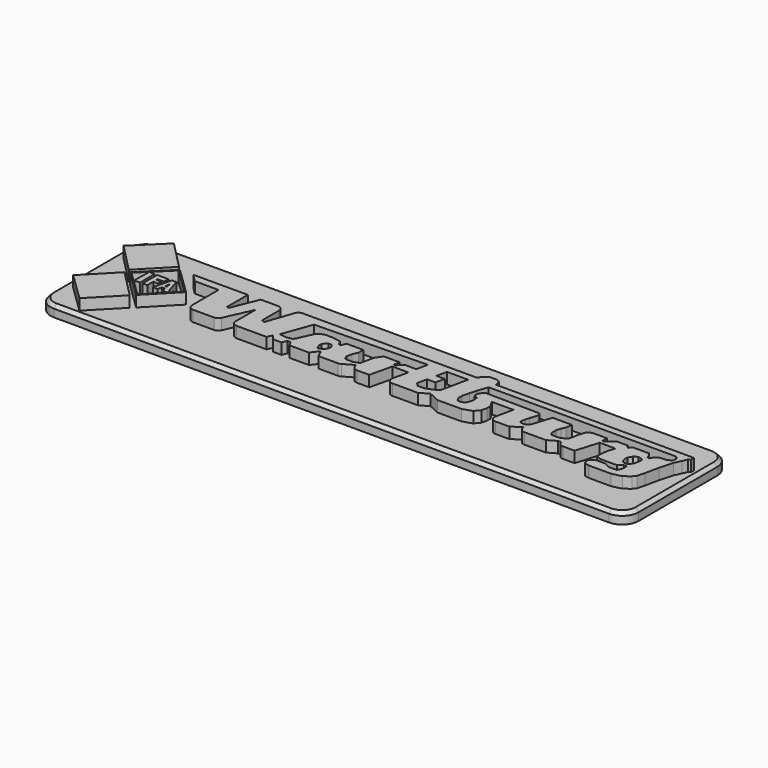
from build123d import *

# Parameters (mm, degrees)
F1_DEPTH = 4
F3_DEPTH = 2
F4_SIZE  = 0.6


with BuildPart() as f1:
    # F0 (on Top) → F1 (new body)
    with BuildSketch(Plane.XY):
        Polygon((-56.8491477888, 10.8641181501), (-51.6609624028, 5.5736856158), (-46.6462401689, 10.7284239638), (-51.7159807801, 15.8980774504), align=None)
    extrude(amount=F1_DEPTH)



with BuildPart() as f1b:
    # F0 (on Top) → F1, piece 2 (new body)
    with BuildSketch(Plane.XY):
        Polygon((-46.6462401689, -0.4782695793), (-51.6609624028, 4.6000382863), (-56.7799396805, -0.6713761738), (-51.6609624028, -5.6423244018), align=None)
    extrude(amount=F1_DEPTH)


with BuildPart() as f1c:
    # F0 (on Top) → F1, piece 3 (new body)
    with BuildSketch(Plane.XY):
        Polygon((-41.013058275, 5.2784369327), (-45.9690578282, 10.0911203772), (-51.0701322752, 5.088633392), (-45.9889408662, 0.1543783523), align=None)
        Polygon((-45.6421747804, 3.5069041654), (-44.7669662535, 3.5069041654), (-44.5982515812, 4.2997766286), (-44.0815612674, 4.2997766286), (-43.7863096595, 3.5069041654), (-43.0121455186, 3.5069041654), (-45.9930899982, 0.4371906305), (-50.7837716348, 5.0893367723), (-45.9683714231, 9.8116706918), (-41.2958705532, 5.2742878007), (-42.9915055972, 3.5281587196), (-44.0182946622, 6.8390495144), (-44.8196902871, 6.8390495144), align=None, mode=Mode.SUBTRACT)
        Polygon((-44.1553741693, 4.8776990377), (-44.4822609425, 4.8776990377), (-44.3097069724, 5.6886142319), align=None, mode=Mode.SUBTRACT)
    extrude(amount=F1_DEPTH)


with BuildPart() as f1d:
    # F0 (on Top) → F1, piece 4 (new body)
    with BuildSketch(Plane.XY):
        Polygon((-45.4645913815, 6.8390495144), (-47.5085824728, 6.8390495144), (-47.5085824728, 3.5069041654), (-46.6439202428, 3.5069041654), (-46.6462401689, 4.8776990377), (-45.7159876823, 4.8776990377), (-45.7171655664, 5.5736856158), (-46.6462401689, 5.5736856158), (-46.6467040939, 5.8478090154), (-45.4629138112, 5.8478090154), align=None)
    extrude(amount=F1_DEPTH)


with BuildPart() as f1e:
    # F0 (on Top) → F1, piece 5 (new body)
    with BuildSketch(Plane.XY):
        Polygon((-47.9514598846, 6.8390495144), (-48.9637479186, 6.8390495144), (-49.0059256554, 3.5069041654), (-47.9458205792, 3.5069041654), align=None)
    extrude(amount=F1_DEPTH)


with BuildPart() as f1f:
    # F0 (on Top) → F1, piece 6 (new body)
    with BuildSketch(Plane.XY):
        with BuildLine():
            Line((-33.6317829788, 10.1079009473), (-43.5470640659, 10.0911203772))
            Line((-43.5470640659, 10.0911203772), (-42.1426035464, 8.6866617203))
            Line((-42.1426035464, 8.6866617203), (-37.8289110959, 8.6866617203))
            Line((-37.8289110959, 8.6866617203), (-37.8289110959, 2.6643682029))
            ThreePointArc((-37.8289110959, 2.6643682029), (-37.536017877, 1.9572614217), (-36.8289110959, 1.6643682029))
            Line((-36.8289110959, 1.6643682029), (-33.0556263762, 1.6643682029))
            ThreePointArc((-33.0556263762, 1.6643682029), (-32.5142406566, 1.8235938559), (-32.1452599264, 2.2505651978))
            Line((-32.1452599264, 2.2505651978), (-29.9037508667, 7.1818842553))
            Line((-29.9037508667, 7.1818842553), (-29.9037508667, 2.6643682029))
            ThreePointArc((-29.9037508667, 2.6643682029), (-29.6108576478, 1.9572614217), (-28.9037508667, 1.6643682029))
            Line((-28.9037508667, 1.6643682029), (-23.4833676368, 1.6643682029))
            Line((-23.4833676368, 1.6643682029), (-23.0687130358, 2.5766081634))
            Line((-23.0687130358, 2.5766081634), (-22.2586710006, 1.6643682029))
            Line((-22.2586710006, 1.6643682029), (-20.7824148238, 1.6643682029))
            Line((-20.7824148238, 1.6643682029), (-20.3677602228, 2.5766081634))
            Line((-20.3677602228, 2.5766081634), (-19.8240242898, 2.5766081634))
            Line((-19.8240242898, 2.5766081634), (-19.3274728954, 1.6643682029))
            Line((-19.3274728954, 1.6643682029), (-15.7806798816, 1.6643682029))
            Line((-15.7806798816, 1.6643682029), (-14.7875770926, 2.9357683379))
            Line((-14.7875770926, 2.9357683379), (-14.5591006475, 2.8319153899))
            Line((-14.5591006475, 2.8319153899), (-14.0427509323, 1.6643682029))
            Line((-14.0427509323, 1.6643682029), (-10.4888273847, 1.6643682029))
            ThreePointArc((-10.4888273847, 1.6643682029), (-10.2310273846, 1.6981699003), (-9.9906555398, 1.7972898829))
            Line((-9.9906555398, 1.7972898829), (-8.186398074, 2.8339093551))
            Line((-8.186398074, 2.8339093551), (-7.9325436902, 2.2599050262))
            ThreePointArc((-7.9325436902, 2.2599050262), (-7.5636710089, 1.8263756085), (-7.017989406, 1.6643682029))
            Line((-7.017989406, 1.6643682029), (-4.8017664813, 1.6643682029))
            Line((-4.8017664813, 1.6643682029), (-3.8473706227, 5.7189371437))
            Line((-3.8473706227, 5.7189371437), (-0.924534339, 5.7189371437))
            Line((-0.924534339, 5.7189371437), (-1.551050498, 2.8798595415))
            ThreePointArc((-1.551050498, 2.8798595415), (-1.3541251908, 2.0380660947), (-0.5745447464, 1.6643682029))
            Line((-0.5745447464, 1.6643682029), (4.0263920091, 1.6643682029))
            Line((4.0263920091, 1.6643682029), (5.6141643822, 2.5766081634))
            Line((5.6141643822, 2.5766081634), (7.6210919397, 1.6643682029))
            Line((7.6210919397, 1.6643682029), (12.0194554329, 1.6643682029))
            Line((12.0194554329, 1.6643682029), (13.6716505513, 2.2204795387))
            Line((13.6716505513, 2.2204795387), (14.4308675081, 3.1062327325))
            Line((14.4308675081, 3.1062327325), (14.6628506482, 4.0763434954))
            Line((14.6628506482, 4.0763434954), (14.6628506482, 4.8566497862))
            Line((14.6628506482, 4.8566497862), (14.3213230469, 5.4510855853))
            Line((14.3213230469, 5.4510855853), (13.9736003474, 6.0563040801))
            Line((13.9736003474, 6.0563040801), (17.889522016, 6.0563040801))
            Line((17.889522016, 6.0563040801), (17.2165471831, 2.87108527))
            ThreePointArc((17.2165471831, 2.87108527), (17.4181863787, 2.0345734217), (18.1949479467, 1.6643682029))
            Line((18.1949479467, 1.6643682029), (20.6733178347, 1.6643682029))
            Line((20.6733178347, 1.6643682029), (22.381555289, 2.8339093551))
            Line((22.381555289, 2.8339093551), (22.4266097287, 2.5215890304))
            ThreePointArc((22.4266097287, 2.5215890304), (22.7616808527, 1.9084650436), (23.4163642982, 1.6643682029))
            Line((23.4163642982, 1.6643682029), (27.300762053, 1.6643682029))
            Line((27.300762053, 1.6643682029), (28.8559887558, 2.557909349))
            Line((28.8559887558, 2.557909349), (29.3621346354, 2.557909349))
            Line((29.3621346354, 2.557909349), (29.5871897186, 2.166196358))
            ThreePointArc((29.5871897186, 2.166196358), (29.953354795, 1.7988707029), (30.4542680385, 1.6643682029))
            Line((30.4542680385, 1.6643682029), (32.5466282666, 1.6643682029))
            Line((32.5466282666, 1.6643682029), (33.7909013033, 5.8056712151))
            Line((33.7909013033, 5.8056712151), (36.6801433265, 5.8056712151))
            Line((36.6801433265, 5.8056712151), (36.2372659147, 4.5192199759))
            Line((36.2372659147, 4.5192199759), (36.047462374, 2.3891944438))
            Line((36.047462374, 2.3891944438), (37.0175726712, 1.9463179633))
            Line((37.0175726712, 1.9463179633), (40.0122627616, 1.9463179633))
            Line((40.0122627616, 1.9463179633), (40.7714806497, 2.557909349))
            Line((40.7714806497, 2.557909349), (41.1721803248, 2.557909349))
            Line((41.1721803248, 2.557909349), (41.3307659731, 2.4855115464))
            Line((41.3307659731, 2.4855115464), (41.3307659731, 1.6643682029))
            Line((41.3307659731, 1.6643682029), (40.9237544536, 0.7728192417))
            Line((40.9237544536, 0.7728192417), (39.5061187446, 0.7728192417))
            Line((39.5061187446, 0.7728192417), (38.8340121151, 1.0796505572))
            Line((38.8340121151, 1.0796505572), (38.3290387587, 1.3101818931))
            Line((38.3290387587, 1.3101818931), (36.7434136569, 1.3101818931))
            Line((36.7434136569, 1.3101818931), (36.2800236663, 1.0439454514))
            Line((36.2800236663, 1.0439454514), (35.8787477016, 0.6176881143))
            Line((35.8787477016, 0.6176881143), (35.8787477016, 0))
            Line((35.8787477016, 0), (36.1434072791, -0.4606454261))
            Line((36.1434072791, -0.4606454261), (37.0175726712, -0.6265842239))
            Line((37.0175726712, -0.6265842239), (39.021063596, -0.6265842239))
            Line((39.021063596, -0.6265842239), (41.0034656525, -0.6265842239))
            Line((41.0034656525, -0.6265842239), (42.7327901125, -0.2258863533))
            Line((42.7327901125, -0.2258863533), (43.8505299389, 0.6176881143))
            Line((43.8505299389, 0.6176881143), (44.2934073508, 1.1871008901))
            Line((44.2934073508, 1.1871008901), (44.6519255638, 2.557909349))
            Line((44.6519255638, 2.557909349), (45.1791584492, 5.0464542583))
            Line((45.1791584492, 5.0464542583), (45.8540208638, 7.4928202666))
            Line((45.8540208638, 7.4928202666), (46.4150205562, 8.7216766235))
            Line((46.4150205562, 8.7216766235), (46.8107867459, 9.5885929597))
            Line((46.8107867459, 9.5885929597), (47.1712892131, 9.7957163245))
            Line((47.1712892131, 9.7957163245), (47.1712892131, 10.525864549))
            Line((47.1712892131, 10.525864549), (11.0987545922, 10.525864549))
            Line((11.0987545922, 10.525864549), (11.0987545922, 11.0991010442))
            Line((11.0987545922, 11.0991010442), (10.8275861877, 11.5710752176))
            Line((10.8275861877, 11.5710752176), (10.2662522453, 11.8273363886))
            Line((10.2662522453, 11.8273363886), (9.0319979936, 11.8273363886))
            Line((9.0319979936, 11.8273363886), (8.4826554452, 11.5117166984))
            Line((8.4826554452, 11.5117166984), (8.0618867651, 11.0780121759))
            Line((8.0618867651, 11.0780121759), (7.6716989279, 10.525864549))
            Line((7.6716989279, 10.525864549), (-23.9907798631, 10.525864549))
            ThreePointArc((-23.9907798631, 10.525864549), (-24.5722025638, 10.3394661979), (-24.9368727991, 9.8497598351))
            Line((-24.9368727991, 9.8497598351), (-26.5668462962, 5.088633392))
            Line((-26.5668462962, 5.088633392), (-26.988632977, 5.088633392))
            Line((-26.988632977, 5.088633392), (-27.1489290638, 5.3676320208))
            Line((-27.1489290638, 5.3676320208), (-27.1489290638, 9.1079009473))
            ThreePointArc((-27.1489290638, 9.1079009473), (-27.4418222826, 9.8150077285), (-28.1489290638, 10.1079009473))
            Line((-28.1489290638, 10.1079009473), (-31.2908627093, 10.1079009473))
            Line((-31.2908627093, 10.1079009473), (-33.2099944353, 5.3206156008))
            Line((-33.2099944353, 5.3206156008), (-33.6317829788, 5.3206156008))
            Line((-33.6317829788, 5.3206156008), (-33.6317829788, 10.1079009473))
        make_face()
        Polygon((-15.3597034514, 5.5736856158), (-14.7567484528, 5.5736856158), (-14.3668828242, 5.088633392), (-14.3660559284, 4.6000382863), (-14.7310993854, 3.8004193583), (-15.5193088576, 3.5069041654), (-15.7393340176, 3.5069041654), (-16.0345856255, 4.2997766286), (-16.0355636984, 4.8776990377), align=None, mode=Mode.SUBTRACT)
        Polygon((40.1727594435, 5.4630190134), (40.8087819815, 5.8404509909), (41.4901599288, 5.6744352914), (41.7890250683, 5.4306504317), (41.7890250683, 4.8845685087), (41.6315421462, 4.0197898634), (41.0762242973, 3.1394220423), (40.3275750577, 3.1394220423), (39.8974567652, 3.4271506593), (39.6995358169, 3.9670388214), (39.6995358169, 4.7001182102), align=None, mode=Mode.SUBTRACT)
        Polygon((-21.3360507041, 3.2952332404), (-22.4922541529, 3.5069041654), (-20.5884817988, 8.8352328166), (-0.2326288086, 9.2715807259), (-0.671914564, 7.2071628889), (-2.7685861569, 7.2071628889), (-3.7146282139, 6.2794048005), (-4.0631657466, 6.2794048005), (-3.8284983515, 7.3822212482), (-6.7232609726, 7.3822212482), (-7.5567578897, 6.1326683499), (-7.8828849668, 4.6000382863), (-8.0720873673, 3.7108840045), (-9.114386341, 3.3227503989), (-10.252321139, 3.3227503989), (-10.6557055429, 3.5069041654), (-10.8848473568, 4.1222445381), (-10.679210276, 5.088633392), (-10.2337381185, 6.0644294572), (-10.2355340194, 7.1255889933), (-13.2670952007, 7.1255889933), (-13.6669668001, 6.2496798558), (-13.9764538035, 6.2496798558), (-14.4796993131, 7.1255889933), (-16.1577314138, 7.3822212482), (-17.3991099, 7.3822212482), (-18.2207695741, 7.0762497948), (-18.6911818493, 6.5918291898), (-19.0713120511, 5.7591631097), (-19.473719599, 4.8776990377), (-19.9878537545, 3.7515005143), (-20.2253769396, 3.5069041654), align=None, mode=Mode.SUBTRACT)
        Polygon((2.8462151122, 7.3822212482), (3.2482503448, 9.2715807259), (7.0859156854, 9.2715807259), (6.0279696247, 4.2997766286), (5.1860740939, 3.8160733228), (3.8745726924, 3.3276935196), (2.6809391209, 3.3276935196), (2.0867534472, 3.9046967102), (2.4728041608, 5.7189371437), (3.9900784771, 5.7189371437), (4.3815951794, 7.3822212482), align=None, mode=Mode.SUBTRACT)
        Polygon((10.1874973625, 7.367788814), (10.814325884, 9.2715807259), (44.9226051569, 9.2715807259), (45.3775533728, 8.8297885661), (45.3784507479, 8.2995487273), (45.3214360401, 8.031608831), (44.6213497372, 7.629380708), (43.099232018, 7.5020007789), (42.5474718213, 6.980065722), (42.3386953771, 6.4879553393), (41.8913252652, 6.4879553393), (41.697461158, 7.1590146981), (41.2649996579, 7.629380708), (38.4167283773, 7.629380708), (37.954442203, 7.129190024), (37.7456657588, 7.129190024), (37.4772436917, 7.629380708), (35.5535410345, 7.629380708), (33.9579097927, 6.4879553393), (33.7491370738, 6.4879553393), (33.7491370738, 7.516913116), (31.0648977757, 7.516913116), (30.3192771971, 7.0993648842), (29.9315527081, 5.8616334572), (29.7675170004, 4.8923254944), (29.5736547559, 4.1467039846), (29.0069822222, 3.6993308458), (28.4104850143, 3.415994579), (27.6797767729, 3.415994579), (26.9043296576, 3.415994579), (26.5684183531, 3.8414821497), (26.5684183531, 5.0563621335), (26.8148556352, 5.7721589692), (27.1280165762, 6.4283055253), (27.2920541465, 7.629380708), (23.7727202475, 7.629380708), (22.6095505059, 3.9379298687), (22.3073251349, 3.6993308458), (21.6402430087, 3.5651191138), (20.9691822529, 3.6993308458), (20.9691822529, 4.1914409958), (21.088482812, 4.8028510064), (21.2823450565, 5.4440852255), (21.7148046941, 6.9204159081), (21.7148046941, 7.2634019889), (21.5170748481, 7.5138597458), (11.634003371, 7.629380708), (11.2132887011, 7.2972374839), (10.8734695241, 6.7862039432), (10.8734695241, 6.1449692585), (11.0688139053, 5.7337180647), (11.5296160802, 5.7337180647), (11.6489157081, 4.8028505407), (11.4252287894, 4.012491554), (11.1418925226, 3.535293974), (10.6415165674, 3.2976153172), (9.9787227809, 3.2976153172), (9.7543390168, 3.5818346972), (9.5180655246, 4.0792524121), (9.5180655246, 4.8475880176), (9.8445117474, 6.1897067353), align=None, mode=Mode.SUBTRACT)
    extrude(amount=F1_DEPTH)


with BuildPart() as f1_1:
    add(f1.part)

    add(f1b.part)  # F3 merges F1b

    add(f1c.part)  # F3 merges F1c

    add(f1d.part)  # F3 merges F1d

    add(f1e.part)  # F3 merges F1e

    add(f1f.part)  # F3 merges F1f
    # F2 (on Top) → F3 (join)
    with BuildSketch(Plane.XY):
        with BuildLine():
            Line((45.3535081148, 17.3487268835), (-55.5859902203, 17.3487268835))
            ThreePointArc((-55.5859902203, 17.3487268835), (-57.7073105639, 16.4700472271), (-58.5859902203, 14.3487268835))
            Line((-58.5859902203, 14.3487268835), (-58.5859902203, -3.5207011066))
            ThreePointArc((-58.5859902203, -3.5207011066), (-57.7073105639, -5.6420214502), (-55.5859902203, -6.5207011066))
            Line((-55.5859902203, -6.5207011066), (45.3535081148, -6.5207011066))
            ThreePointArc((45.3535081148, -6.5207011066), (47.4748284584, -5.6420214502), (48.3535081148, -3.5207011066))
            Line((48.3535081148, -3.5207011066), (48.3535081148, 14.3487268835))
            ThreePointArc((48.3535081148, 14.3487268835), (47.4748284584, 16.4700472271), (45.3535081148, 17.3487268835))
        make_face()
    extrude(amount=F3_DEPTH)

    # F4
    f4_edges = [f1_1.edges().sort_by_distance(p)[0] for p in [
        (-5.116241, -6.520701, 2),
        (-57.707311, -5.642021, 2),
        (-58.58599, 5.414013, 2),
        (-57.707311, 16.470047, 2),
        (-5.116241, 17.348727, 2),
        (47.474828, 16.470047, 2),
        (48.353508, 5.414013, 2),
        (47.474828, -5.642021, 2),
    ]]
    chamfer(f4_edges, length=F4_SIZE)


solid = f1_1.part
